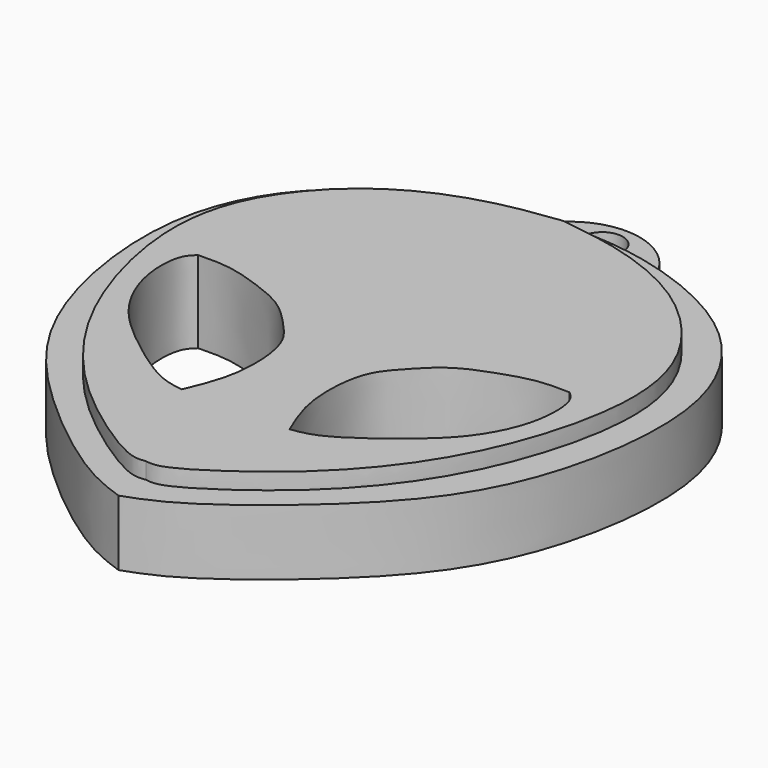
from build123d import *

# Parameters (mm, degrees)
F1_DEPTH = 6.35
F2_DEPTH = 5.08
F0_R     = 1.5875
F3_DEPTH = 3.175


with BuildPart() as f1:
    # F0 (on Top) → F1 (new body)
    with BuildSketch(Plane.XY):
        with BuildLine():
            add(Edge.make_bspline(
                [(-1.4112541221, 16.2979830056), (0.2083424352, 16.0920060725), (3.7344260135, 15.6435660717), (10.3937440091, 12.9987411213), (15.8767636121, 6.809953331), (16.9010208319, -0.7390129398), (14.1684728151, -10.1079118181), (9.7602130959, -16.5667305177), (5.1170487603, -20.8255933605), (-0.0347118095, -24.2343912546), (-1.0862832675, -24.0906685498), (-1.4112541221, -24.046253413)],
                knots=[0, 0, 0, 0, 0.1008585296, 0.2195828357, 0.3449507761, 0.4659662279, 0.6045939254, 0.7288816073, 0.8441824902, 0.9518471627, 1, 1, 1, 1], degree=3))
            add(Edge.make_bspline(
                [(-1.4112541221, 16.2979830056), (-3.0308506794, 16.0920060725), (-6.5569342578, 15.6435660717), (-13.2162522534, 12.9987411213), (-18.6992718563, 6.809953331), (-19.7235290761, -0.7390129398), (-16.9909810594, -10.1079118181), (-12.5827213401, -16.5667305177), (-7.9395570045, -20.8255933605), (-2.7877964348, -24.2343912546), (-1.7362249768, -24.0906685498), (-1.4112541221, -24.046253413)],
                knots=[0, 0, 0, 0, 0.1008585296, 0.2195828357, 0.3449507761, 0.4659662279, 0.6045939254, 0.7288816073, 0.8441824902, 0.9518471627, 1, 1, 1, 1], degree=3))
        make_face()
        with BuildLine():
            add(Edge.make_bspline(
                [(-15.8001296222, -0.996046816), (-16.049140794, -1.2236086843), (-16.7271092255, -1.8431783277), (-16.8133281385, -5.3751060277), (-14.8491283954, -9.3940475308), (-11.5864460743, -12.219839107), (-7.7229811363, -15.0411769787), (-6.1999227272, -15.2658485335), (-5.5953129195, -15.355036594)],
                knots=[0, 0, 0, 0, 0.0982418768, 0.2674775216, 0.4653369743, 0.6637792895, 0.8665301752, 1, 1, 1, 1], degree=3))
            add(Edge.make_bspline(
                [(-15.8001296222, -0.996046816), (-14.9750193381, -0.9754494022), (-13.2691200267, -0.9328646535), (-10.5400347103, -1.8514557492), (-7.9507181497, -2.8711457619), (-6.0504051615, -4.9284532505), (-4.7497965253, -6.3730802582), (-4.1599986905, -8.8125502393), (-4.2798956636, -12.2754795554), (-5.1586784304, -14.332820405), (-5.5953129195, -15.355036594)],
                knots=[0, 0, 0, 0, 0.1197822072, 0.2476473614, 0.3744244804, 0.499497881, 0.603656632, 0.7208883853, 0.8613198143, 1, 1, 1, 1], degree=3))
        make_face(mode=Mode.SUBTRACT)
        with BuildLine():
            add(Edge.make_bspline(
                [(12.977621378, -0.996046816), (12.1525110938, -0.9754494022), (10.4466117825, -0.9328646535), (7.717526466, -1.8514557492), (5.1282099054, -2.8711457619), (3.2278969172, -4.9284532505), (1.927288281, -6.3730802582), (1.3374904462, -8.8125502393), (1.4573874194, -12.2754795554), (2.3361701861, -14.332820405), (2.7728046752, -15.355036594)],
                knots=[0, 0, 0, 0, 0.1197822072, 0.2476473614, 0.3744244804, 0.499497881, 0.603656632, 0.7208883853, 0.8613198143, 1, 1, 1, 1], degree=3))
            add(Edge.make_bspline(
                [(12.977621378, -0.996046816), (13.2266325498, -1.2236086843), (13.9046009813, -1.8431783277), (13.9908198943, -5.3751060277), (12.0266201511, -9.3940475308), (8.7639378301, -12.219839107), (4.9004728921, -15.0411769787), (3.3774144829, -15.2658485335), (2.7728046752, -15.355036594)],
                knots=[0, 0, 0, 0, 0.0982418768, 0.2674775216, 0.4653369743, 0.6637792895, 0.8665301752, 1, 1, 1, 1], degree=3))
        make_face(mode=Mode.SUBTRACT)
    extrude(amount=F1_DEPTH)

    # F0 (on Top) → F2 (join)
    with BuildSketch(Plane.XY):
        with BuildLine():
            add(Edge.make_bspline(
                [(-1.4112541221, 17.8868025541), (0.2894761052, 17.8001667692), (1.9870259072, 17.7155284418), (4.0435007304, 17.2553602606)],
                knots=[0, 0, 0, 0, 0.1118784285, 0.1118784285, 0.1118784285, 0.1118784285], degree=3))
            add(Edge.make_bspline(
                [(-1.4112541221, 17.8868025541), (-3.1119843495, 17.8001667692), (-4.8095341515, 17.7155284418), (-6.8660089746, 17.2553602606)],
                knots=[0, 0, 0, 0, 0.1118784285, 0.1118784285, 0.1118784285, 0.1118784285], degree=3))
            add(Edge.make_bspline(
                [(-6.8660089746, 17.2553602606), (-9.5693231743, 16.6504517227), (-16.3616635993, 14.0879956485), (-22.5586290298, 4.9491136437), (-20.4686657879, -9.5081509637), (-14.5770277394, -17.9377178907), (-5.2566268203, -25.3570476989), (-2.4124365336, -26.3447570611), (-1.4112541221, -26.7001313573)],
                knots=[0.1118784285, 0.1118784285, 0.1118784285, 0.1118784285, 0.2589468686, 0.4124431398, 0.5885018887, 0.7451029629, 0.9068800786, 1, 1, 1, 1], degree=3))
            add(Edge.make_bspline(
                [(4.0435007304, 17.2553602606), (6.7468149301, 16.6504517227), (13.539155355, 14.0879956485), (19.7361207856, 4.9491136437), (17.6461575437, -9.5081509637), (11.7545194951, -17.9377178907), (2.4341185761, -25.3570476989), (-0.4100717106, -26.3447570611), (-1.4112541221, -26.7001313573)],
                knots=[0.1118784285, 0.1118784285, 0.1118784285, 0.1118784285, 0.2589468686, 0.4124431398, 0.5885018887, 0.7451029629, 0.9068800786, 1, 1, 1, 1], degree=3))
        make_face()
        with BuildLine():
            add(Edge.make_bspline(
                [(-1.4112541221, 16.2979830056), (-3.0308506794, 16.0920060725), (-6.5569342578, 15.6435660717), (-13.2162522534, 12.9987411213), (-18.6992718563, 6.809953331), (-19.7235290761, -0.7390129398), (-16.9909810594, -10.1079118181), (-12.5827213401, -16.5667305177), (-7.9395570045, -20.8255933605), (-2.7877964348, -24.2343912546), (-1.7362249768, -24.0906685498), (-1.4112541221, -24.046253413)],
                knots=[0, 0, 0, 0, 0.1008585296, 0.2195828357, 0.3449507761, 0.4659662279, 0.6045939254, 0.7288816073, 0.8441824902, 0.9518471627, 1, 1, 1, 1], degree=3))
            add(Edge.make_bspline(
                [(-1.4112541221, 16.2979830056), (0.2083424352, 16.0920060725), (3.7344260135, 15.6435660717), (10.3937440091, 12.9987411213), (15.8767636121, 6.809953331), (16.9010208319, -0.7390129398), (14.1684728151, -10.1079118181), (9.7602130959, -16.5667305177), (5.1170487603, -20.8255933605), (-0.0347118095, -24.2343912546), (-1.0862832675, -24.0906685498), (-1.4112541221, -24.046253413)],
                knots=[0, 0, 0, 0, 0.1008585296, 0.2195828357, 0.3449507761, 0.4659662279, 0.6045939254, 0.7288816073, 0.8441824902, 0.9518471627, 1, 1, 1, 1], degree=3))
        make_face(mode=Mode.SUBTRACT)
    extrude(amount=F2_DEPTH)

    # F0 (on Top) → F3 (join)
    with BuildSketch(Plane.XY):
        with BuildLine():
            add(Edge.make_bspline(
                [(-1.4112541221, 17.8868025541), (-3.1119843495, 17.8001667692), (-4.8095341515, 17.7155284418), (-6.8660089746, 17.2553602606)],
                knots=[0, 0, 0, 0, 0.1118784285, 0.1118784285, 0.1118784285, 0.1118784285], degree=3))
            add(Edge.make_bspline(
                [(-1.4112541221, 17.8868025541), (0.2894761052, 17.8001667692), (1.9870259072, 17.7155284418), (4.0435007304, 17.2553602606)],
                knots=[0, 0, 0, 0, 0.1118784285, 0.1118784285, 0.1118784285, 0.1118784285], degree=3))
            ThreePointArc((4.0435007304, 17.2553602606), (-1.4112541221, 22.4147675889), (-6.8660089746, 17.2553602606))
        make_face()
        with Locations((-1.4112541221, 20.1499480754)):
            Circle(F0_R, mode=Mode.SUBTRACT)
    extrude(amount=F3_DEPTH)


solid = f1.part
